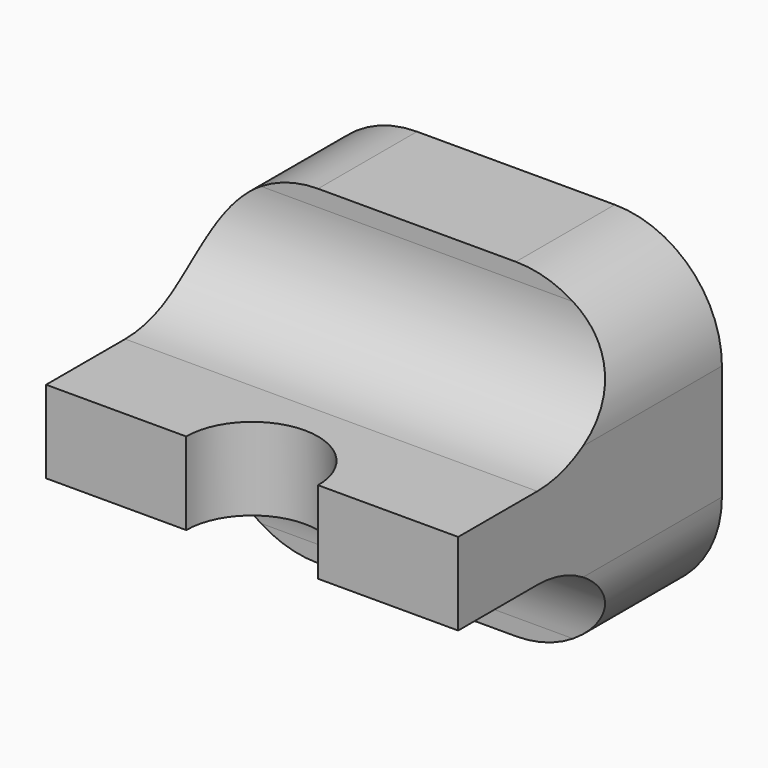
from build123d import *

# Parameters (mm, degrees)
F0_W          = 50
F0_H          = 10
F1_DEPTH      = 25
F2_W          = 50
F2_H          = 15
F3_DEPTH      = 15
F3_DEPTH_BACK = 25
F5_DEPTH      = 25
F6_R          = 13
F7_R          = 13


with BuildPart() as f1:
    # F0 (on Front) → F1 (new body)
    with BuildSketch(Plane.XZ):
        with Locations((0, -5)):
            Rectangle(F0_W, F0_H)
    extrude(amount=-F1_DEPTH)

    # F2 (on Top) → F3 (join, two sides)
    with BuildSketch(Plane.XY) as f3_sk:
        with Locations((0, 32.5)):
            Rectangle(F2_W, F2_H)
    extrude(amount=F3_DEPTH)
    extrude(f3_sk.sketch, amount=-F3_DEPTH_BACK)

    # F4 (on face) → F5 (cut)
    with BuildSketch(Plane.XY):
        with BuildLine():
            Line((-8, 0), (8, 0))
            ThreePointArc((8, 0), (0, 8), (-8, 0))
        make_face()
    extrude(amount=-F5_DEPTH, mode=Mode.SUBTRACT)

    # F6
    f6_edges = [f1.edges().sort_by_distance(p)[0] for p in [
        (-25, 32.5, 15),
        (25, 32.5, 15),
        (25, 32.5, -25),
        (-25, 32.5, -25),
    ]]
    fillet(f6_edges, radius=F6_R)

    # F7
    f7_edges = [f1.edges().sort_by_distance(p)[0] for p in [
        (0, 25, 0),
        (0, 25, -10),
    ]]
    fillet(f7_edges, radius=F7_R)


solid = f1.part
